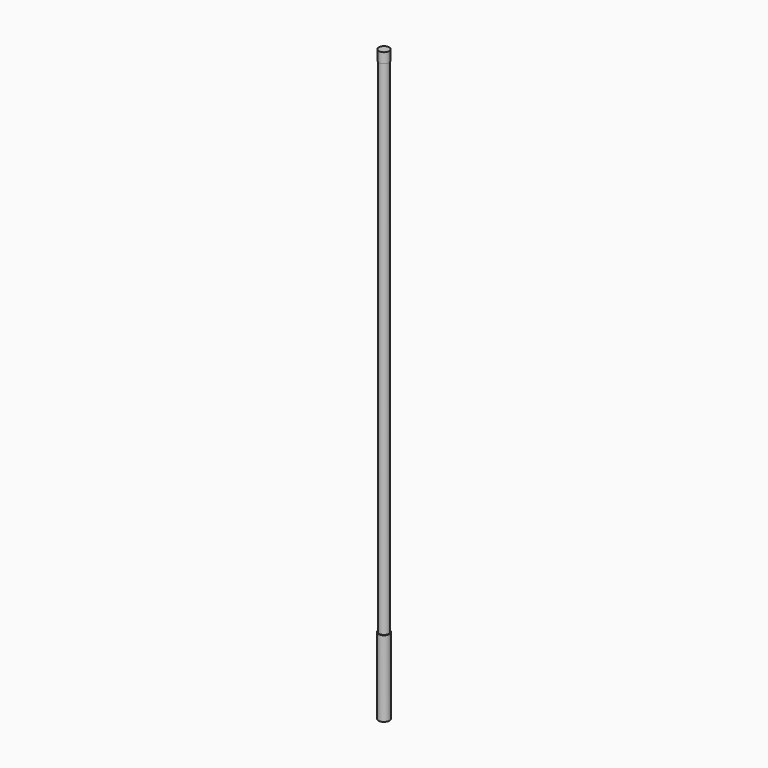
from build123d import *

# Parameters (mm, degrees)
CYLINDER031_R     = 15
CYLINDER031_DEPTH = 204
CYLINDER032_R     = 14
CYLINDER032_DEPTH = 27
CYLINDER030_R     = 13
CYLINDER030_DEPTH = 1390


with BuildPart() as obj1:
    # Cylinder031 → Cylinder031 (new body)
    with BuildSketch(Plane.XY):
        Circle(CYLINDER031_R)
    extrude(amount=CYLINDER031_DEPTH)


with BuildPart() as obj2:
    # Cylinder032 → Cylinder032 (new body)
    with BuildSketch(Plane.XY.offset(1363)):
        Circle(CYLINDER032_R)
    extrude(amount=CYLINDER032_DEPTH)


with BuildPart() as obj3:
    # Cylinder030 → Cylinder030 (new body)
    with BuildSketch(Plane.XY):
        Circle(CYLINDER030_R)
    extrude(amount=CYLINDER030_DEPTH)

    # Fusion006: union obj2
    add(obj2.part)


with BuildPart() as obj3_1:
    # Fusion006 placement: moved
    add(obj3.part.moved(Location((0, 0, 188))))

    # Fusion007: union obj1
    add(obj1.part)


with BuildPart() as obj3_2:
    # Fusion007 placement: moved
    add(obj3_1.part.moved(Location((0, 103, -127))))


solid = obj3_2.part
